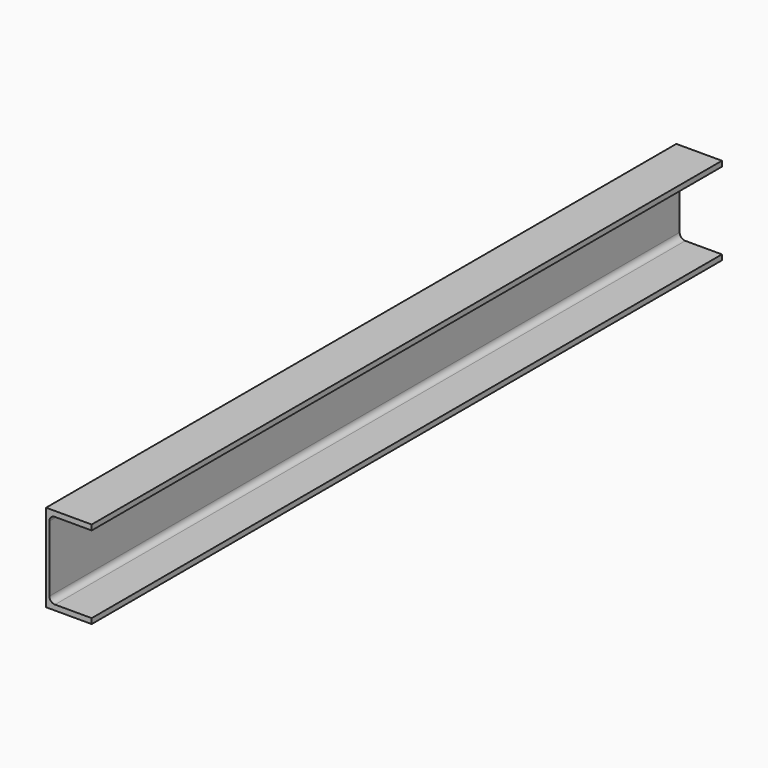
from build123d import *

# Parameters (mm, degrees)
F1_DEPTH = 1123


with BuildPart() as f1:
    # F0 (on Front) → F1 (new body)
    with BuildSketch(Plane.XZ):
        with BuildLine():
            Line((-25.16784, 62.5), (-25.16784, -62.5))
            Line((-25.16784, -62.5), (39.83216, -62.5))
            Line((39.83216, -62.5), (39.83216, -55))
            Line((39.83216, -55), (-12.46784, -55))
            ThreePointArc((-12.46784, -55), (-18.124695, -52.656854), (-20.46784, -47))
            Line((-20.46784, -47), (-20.46784, 47))
            ThreePointArc((-20.46784, 47), (-18.124695, 52.656854), (-12.46784, 55))
            Line((-12.46784, 55), (39.83216, 55))
            Line((39.83216, 55), (39.83216, 62.5))
            Line((39.83216, 62.5), (-25.16784, 62.5))
        make_face()
    extrude(amount=F1_DEPTH)


solid = f1.part
